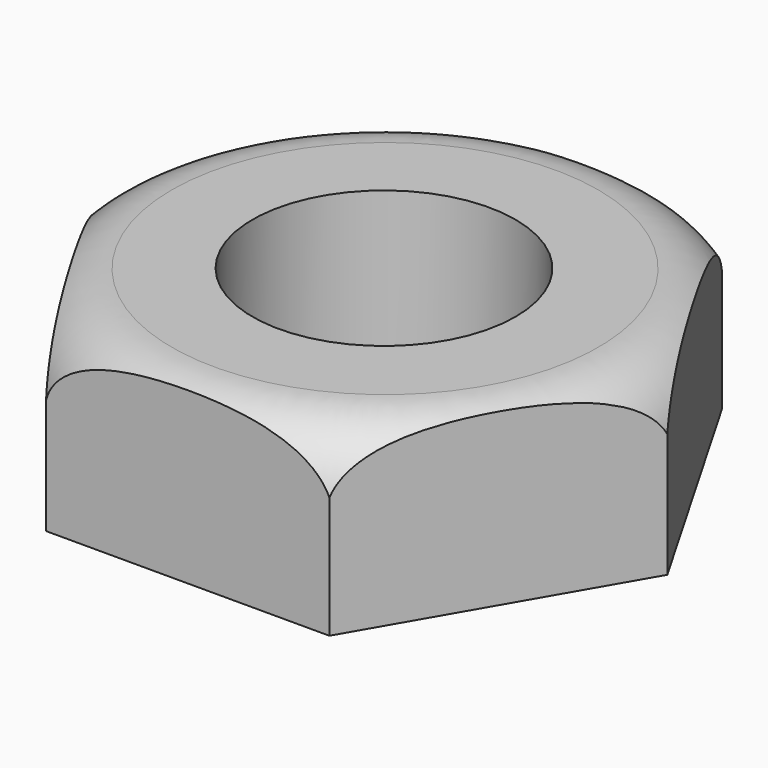
from build123d import *

# Parameters (mm, degrees)
F0_R     = 18.5
F1_DEPTH = 25


with BuildPart() as f1:
    # F0 (on Top) → F1 (new body)
    with BuildSketch(Plane.XY):
        Polygon((19.918584, 34.5), (-19.918584, 34.5), (-39.837169, 0), (-19.918584, -34.5), (19.918584, -34.5), (39.837169, 0), align=None)
        Circle(F0_R, mode=Mode.SUBTRACT)
    extrude(amount=F1_DEPTH)

    # F2 (on Front) → F3 (revolve, cut)
    with BuildSketch(Plane.XZ):
        with BuildLine():
            Line((-48.746884, 0), (-39.837169, 0))
            Line((-39.837169, 0), (-39.837169, 15))
            ThreePointArc((-39.837169, 15), (-36.908236, 22.071068), (-29.837169, 25))
            Line((-29.837169, 25), (0.146632, 25))
            Line((0.146632, 25), (0.146632, 38.46572))
            Line((0.146632, 38.46572), (-48.746884, 38.46572))
            Line((-48.746884, 38.46572), (-48.746884, 0))
        make_face()
    revolve(axis=Axis((0.146632, 0, 31.73286), (0, 0, 1)), mode=Mode.SUBTRACT)


solid = f1.part
